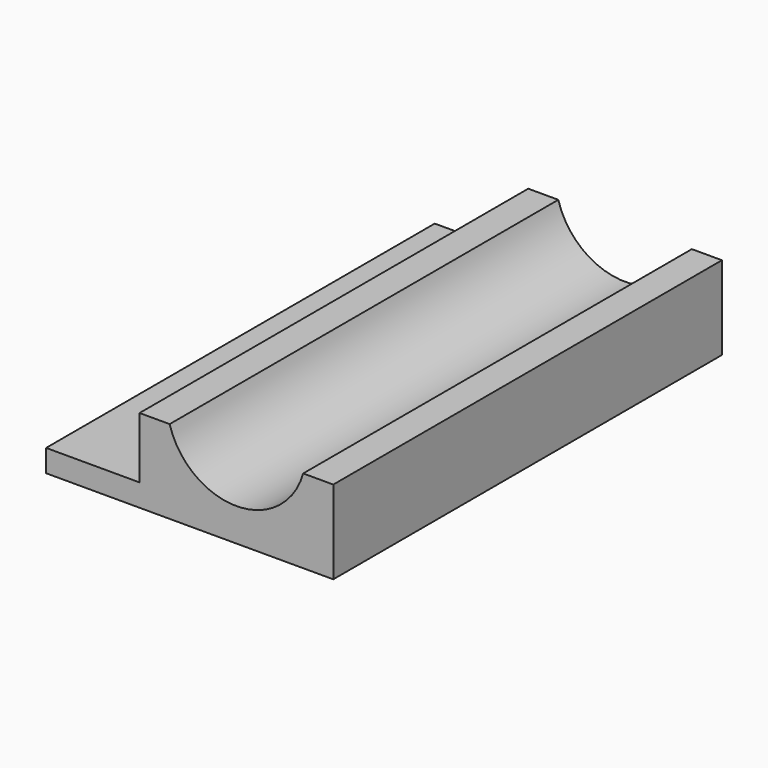
from build123d import *

# Parameters (mm, degrees)
F2_DEPTH       = 70
F4_D           = 3.5
F4_CSINK_D     = 7
F4_CSINK_ANGLE = 90


with BuildPart() as f2:
    # F1 (on Front) → F2 (new body)
    with BuildSketch(Plane.XZ):
        with BuildLine():
            Line((0, 3.2153789857), (0, 0))
            Line((0, 0), (41.3793856046, 0))
            Line((41.3793856046, 0), (41.3793856046, 12.0218454194))
            Line((41.3793856046, 12.0218454194), (37.0459675166, 12.0218454194))
            ThreePointArc((37.0459675166, 12.0218454194), (27.4254767926, 4.7506103835), (17.8049860686, 12.0218454194))
            Line((17.8049860686, 12.0218454194), (13.4715679806, 12.0218454194))
            Line((13.4715679806, 12.0218454194), (13.4715679806, 3.2153789857))
            Line((13.4715679806, 3.2153789857), (0, 3.2153789857))
        make_face()
    extrude(amount=F2_DEPTH)

    # F4 (through all)
    with Locations(Plane.XY.offset(3.2153789857)):
        with Locations((6.7357839903, -20), (6.7357839903, -50)):
            CounterSinkHole(F4_D / 2, F4_CSINK_D / 2, counter_sink_angle=F4_CSINK_ANGLE)


solid = f2.part
